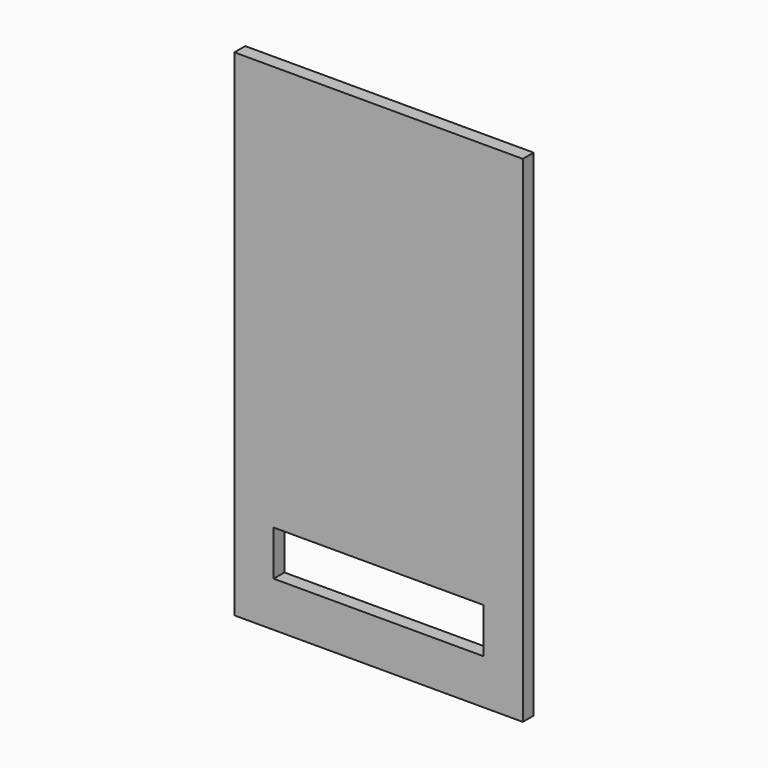
from build123d import *

# Parameters (mm, degrees)
F0_W     = 59.175328
F0_H     = 12.7
F1_DEPTH = 3.81


with BuildPart() as f1:
    # F0 (on Front) → F1 (new body)
    with BuildSketch(Plane.XZ):
        Polygon((81.28, 0), (0, 0), (0, -114.3), (0, -127), (0, -139.7), (81.28, -139.7), (81.28, -127), (81.28, -114.3), align=None)
        with Locations((40.643336, -120.65)):
            Rectangle(F0_W, F0_H, mode=Mode.SUBTRACT)
    extrude(amount=-F1_DEPTH)


solid = f1.part
